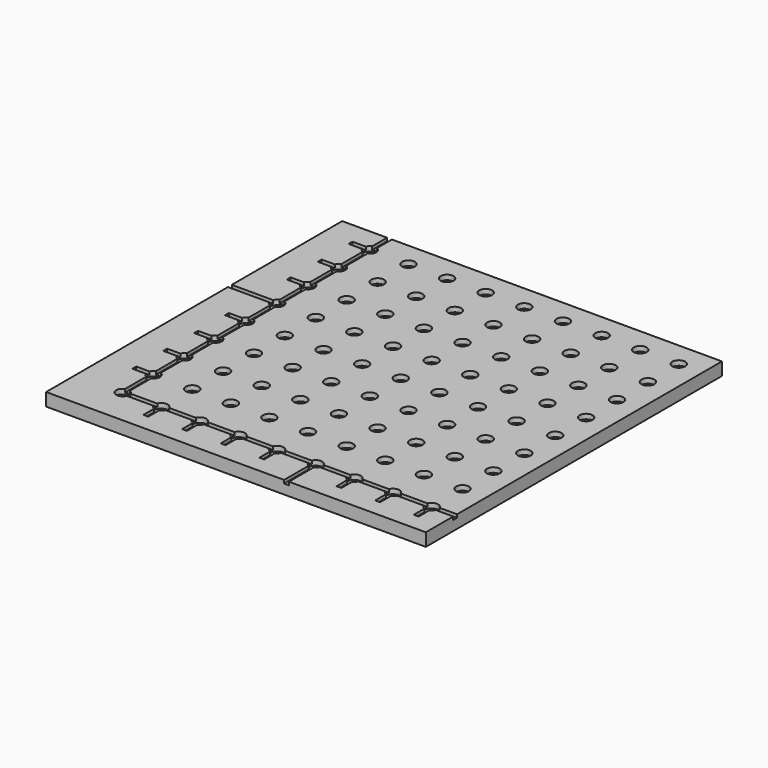
from build123d import *

# Parameters (mm, degrees)
F0_W      = 190
F0_H      = 190
F0_R      = 1
F1_DEPTH  = 4
F5_W      = 118
F5_H      = 115
F6_DEPTH  = 25
F7_R      = 2
F8_DEPTH  = 1.5
F9_DEPTH  = 1
F3_W      = 1.5
F3_H      = 6
F3_W_2    = 6
F3_H_2    = 1.5
F10_DEPTH = 1
F4_W      = 1.5
F4_H      = 13.585803
F4_H_2    = 16.246846
F4_W_2    = 18.853063
F4_H_3    = 1.5
F4_W_3    = 20.239596
F11_DEPTH = 1


with BuildPart() as f1:
    # F0 (on Top) → F1 (new body)
    with BuildSketch(Plane.XY):
        Rectangle(F0_W, F0_H)
        with Locations((-80, -83)):
            Circle(F0_R, mode=Mode.SUBTRACT)
        with Locations((-68, -83)):
            Circle(F0_R, mode=Mode.SUBTRACT)
        with Locations((-56, -83)):
            Circle(F0_R, mode=Mode.SUBTRACT)
        with Locations((-80, -71)):
            Circle(F0_R, mode=Mode.SUBTRACT)
        with Locations((-80, -59)):
            Circle(F0_R, mode=Mode.SUBTRACT)
        with Locations((-68, -71)):
            Circle(F0_R, mode=Mode.SUBTRACT)
        with Locations((-56, -71)):
            Circle(F0_R, mode=Mode.SUBTRACT)
        with Locations((-68, -59)):
            Circle(F0_R, mode=Mode.SUBTRACT)
        with Locations((-56, -59)):
            Circle(F0_R, mode=Mode.SUBTRACT)
        with Locations((-44, -83)):
            Circle(F0_R, mode=Mode.SUBTRACT)
        with Locations((-32, -83)):
            Circle(F0_R, mode=Mode.SUBTRACT)
        with Locations((-20, -83)):
            Circle(F0_R, mode=Mode.SUBTRACT)
        with Locations((-8, -83)):
            Circle(F0_R, mode=Mode.SUBTRACT)
        with Locations((-44, -71)):
            Circle(F0_R, mode=Mode.SUBTRACT)
        with Locations((-32, -71)):
            Circle(F0_R, mode=Mode.SUBTRACT)
        with Locations((-44, -59)):
            Circle(F0_R, mode=Mode.SUBTRACT)
        with Locations((-32, -59)):
            Circle(F0_R, mode=Mode.SUBTRACT)
        with Locations((-20, -71)):
            Circle(F0_R, mode=Mode.SUBTRACT)
        with Locations((-8, -71)):
            Circle(F0_R, mode=Mode.SUBTRACT)
        with Locations((-20, -59)):
            Circle(F0_R, mode=Mode.SUBTRACT)
        with Locations((-8, -59)):
            Circle(F0_R, mode=Mode.SUBTRACT)
        with Locations((-80, -47)):
            Circle(F0_R, mode=Mode.SUBTRACT)
        with Locations((-80, -35)):
            Circle(F0_R, mode=Mode.SUBTRACT)
        with Locations((-68, -47)):
            Circle(F0_R, mode=Mode.SUBTRACT)
        with Locations((-56, -47)):
            Circle(F0_R, mode=Mode.SUBTRACT)
        with Locations((-68, -35)):
            Circle(F0_R, mode=Mode.SUBTRACT)
        with Locations((-56, -35)):
            Circle(F0_R, mode=Mode.SUBTRACT)
        with Locations((-80, -23)):
            Circle(F0_R, mode=Mode.SUBTRACT)
        with Locations((-80, -11)):
            Circle(F0_R, mode=Mode.SUBTRACT)
        with Locations((-68, -23)):
            Circle(F0_R, mode=Mode.SUBTRACT)
        with Locations((-56, -23)):
            Circle(F0_R, mode=Mode.SUBTRACT)
        with Locations((-68, -11)):
            Circle(F0_R, mode=Mode.SUBTRACT)
        with Locations((-56, -11)):
            Circle(F0_R, mode=Mode.SUBTRACT)
        with Locations((-44, -47)):
            Circle(F0_R, mode=Mode.SUBTRACT)
        with Locations((-32, -47)):
            Circle(F0_R, mode=Mode.SUBTRACT)
        with Locations((-44, -35)):
            Circle(F0_R, mode=Mode.SUBTRACT)
        with Locations((-32, -35)):
            Circle(F0_R, mode=Mode.SUBTRACT)
        with Locations((-20, -47)):
            Circle(F0_R, mode=Mode.SUBTRACT)
        with Locations((-8, -47)):
            Circle(F0_R, mode=Mode.SUBTRACT)
        with Locations((-20, -35)):
            Circle(F0_R, mode=Mode.SUBTRACT)
        with Locations((-8, -35)):
            Circle(F0_R, mode=Mode.SUBTRACT)
        with Locations((-44, -23)):
            Circle(F0_R, mode=Mode.SUBTRACT)
        with Locations((-32, -23)):
            Circle(F0_R, mode=Mode.SUBTRACT)
        with Locations((-44, -11)):
            Circle(F0_R, mode=Mode.SUBTRACT)
        with Locations((-32, -11)):
            Circle(F0_R, mode=Mode.SUBTRACT)
        with Locations((-20, -23)):
            Circle(F0_R, mode=Mode.SUBTRACT)
        with Locations((-8, -23)):
            Circle(F0_R, mode=Mode.SUBTRACT)
        with Locations((-20, -11)):
            Circle(F0_R, mode=Mode.SUBTRACT)
        with Locations((-8, -11)):
            Circle(F0_R, mode=Mode.SUBTRACT)
        with Locations((4, -83)):
            Circle(F0_R, mode=Mode.SUBTRACT)
        with Locations((16, -83)):
            Circle(F0_R, mode=Mode.SUBTRACT)
        with Locations((28, -83)):
            Circle(F0_R, mode=Mode.SUBTRACT)
        with Locations((40, -83)):
            Circle(F0_R, mode=Mode.SUBTRACT)
        with Locations((4, -71)):
            Circle(F0_R, mode=Mode.SUBTRACT)
        with Locations((16, -71)):
            Circle(F0_R, mode=Mode.SUBTRACT)
        with Locations((4, -59)):
            Circle(F0_R, mode=Mode.SUBTRACT)
        with Locations((16, -59)):
            Circle(F0_R, mode=Mode.SUBTRACT)
        with Locations((28, -71)):
            Circle(F0_R, mode=Mode.SUBTRACT)
        with Locations((40, -71)):
            Circle(F0_R, mode=Mode.SUBTRACT)
        with Locations((28, -59)):
            Circle(F0_R, mode=Mode.SUBTRACT)
        with Locations((40, -59)):
            Circle(F0_R, mode=Mode.SUBTRACT)
        with Locations((52, -83)):
            Circle(F0_R, mode=Mode.SUBTRACT)
        with Locations((64, -83)):
            Circle(F0_R, mode=Mode.SUBTRACT)
        with Locations((76, -83)):
            Circle(F0_R, mode=Mode.SUBTRACT)
        with Locations((88, -83)):
            Circle(F0_R, mode=Mode.SUBTRACT)
        with Locations((52, -71)):
            Circle(F0_R, mode=Mode.SUBTRACT)
        with Locations((64, -71)):
            Circle(F0_R, mode=Mode.SUBTRACT)
        with Locations((52, -59)):
            Circle(F0_R, mode=Mode.SUBTRACT)
        with Locations((64, -59)):
            Circle(F0_R, mode=Mode.SUBTRACT)
        with Locations((76, -71)):
            Circle(F0_R, mode=Mode.SUBTRACT)
        with Locations((88, -71)):
            Circle(F0_R, mode=Mode.SUBTRACT)
        with Locations((76, -59)):
            Circle(F0_R, mode=Mode.SUBTRACT)
        with Locations((88, -59)):
            Circle(F0_R, mode=Mode.SUBTRACT)
        with Locations((4, -47)):
            Circle(F0_R, mode=Mode.SUBTRACT)
        with Locations((16, -47)):
            Circle(F0_R, mode=Mode.SUBTRACT)
        with Locations((4, -35)):
            Circle(F0_R, mode=Mode.SUBTRACT)
        with Locations((16, -35)):
            Circle(F0_R, mode=Mode.SUBTRACT)
        with Locations((28, -47)):
            Circle(F0_R, mode=Mode.SUBTRACT)
        with Locations((40, -47)):
            Circle(F0_R, mode=Mode.SUBTRACT)
        with Locations((28, -35)):
            Circle(F0_R, mode=Mode.SUBTRACT)
        with Locations((40, -35)):
            Circle(F0_R, mode=Mode.SUBTRACT)
        with Locations((4, -23)):
            Circle(F0_R, mode=Mode.SUBTRACT)
        with Locations((16, -23)):
            Circle(F0_R, mode=Mode.SUBTRACT)
        with Locations((4, -11)):
            Circle(F0_R, mode=Mode.SUBTRACT)
        with Locations((16, -11)):
            Circle(F0_R, mode=Mode.SUBTRACT)
        with Locations((28, -23)):
            Circle(F0_R, mode=Mode.SUBTRACT)
        with Locations((40, -23)):
            Circle(F0_R, mode=Mode.SUBTRACT)
        with Locations((28, -11)):
            Circle(F0_R, mode=Mode.SUBTRACT)
        with Locations((40, -11)):
            Circle(F0_R, mode=Mode.SUBTRACT)
        with Locations((52, -47)):
            Circle(F0_R, mode=Mode.SUBTRACT)
        with Locations((64, -47)):
            Circle(F0_R, mode=Mode.SUBTRACT)
        with Locations((52, -35)):
            Circle(F0_R, mode=Mode.SUBTRACT)
        with Locations((64, -35)):
            Circle(F0_R, mode=Mode.SUBTRACT)
        with Locations((76, -47)):
            Circle(F0_R, mode=Mode.SUBTRACT)
        with Locations((88, -47)):
            Circle(F0_R, mode=Mode.SUBTRACT)
        with Locations((76, -35)):
            Circle(F0_R, mode=Mode.SUBTRACT)
        with Locations((88, -35)):
            Circle(F0_R, mode=Mode.SUBTRACT)
        with Locations((52, -23)):
            Circle(F0_R, mode=Mode.SUBTRACT)
        with Locations((64, -23)):
            Circle(F0_R, mode=Mode.SUBTRACT)
        with Locations((52, -11)):
            Circle(F0_R, mode=Mode.SUBTRACT)
        with Locations((64, -11)):
            Circle(F0_R, mode=Mode.SUBTRACT)
        with Locations((76, -23)):
            Circle(F0_R, mode=Mode.SUBTRACT)
        with Locations((88, -23)):
            Circle(F0_R, mode=Mode.SUBTRACT)
        with Locations((76, -11)):
            Circle(F0_R, mode=Mode.SUBTRACT)
        with Locations((88, -11)):
            Circle(F0_R, mode=Mode.SUBTRACT)
        with Locations((-80, 1)):
            Circle(F0_R, mode=Mode.SUBTRACT)
        with Locations((-80, 13)):
            Circle(F0_R, mode=Mode.SUBTRACT)
        with Locations((-68, 1)):
            Circle(F0_R, mode=Mode.SUBTRACT)
        with Locations((-56, 1)):
            Circle(F0_R, mode=Mode.SUBTRACT)
        with Locations((-68, 13)):
            Circle(F0_R, mode=Mode.SUBTRACT)
        with Locations((-56, 13)):
            Circle(F0_R, mode=Mode.SUBTRACT)
        with Locations((-80, 25)):
            Circle(F0_R, mode=Mode.SUBTRACT)
        with Locations((-80, 37)):
            Circle(F0_R, mode=Mode.SUBTRACT)
        with Locations((-68, 25)):
            Circle(F0_R, mode=Mode.SUBTRACT)
        with Locations((-56, 25)):
            Circle(F0_R, mode=Mode.SUBTRACT)
        with Locations((-68, 37)):
            Circle(F0_R, mode=Mode.SUBTRACT)
        with Locations((-56, 37)):
            Circle(F0_R, mode=Mode.SUBTRACT)
        with Locations((-44, 1)):
            Circle(F0_R, mode=Mode.SUBTRACT)
        with Locations((-32, 1)):
            Circle(F0_R, mode=Mode.SUBTRACT)
        with Locations((-44, 13)):
            Circle(F0_R, mode=Mode.SUBTRACT)
        with Locations((-32, 13)):
            Circle(F0_R, mode=Mode.SUBTRACT)
        with Locations((-20, 1)):
            Circle(F0_R, mode=Mode.SUBTRACT)
        with Locations((-8, 1)):
            Circle(F0_R, mode=Mode.SUBTRACT)
        with Locations((-20, 13)):
            Circle(F0_R, mode=Mode.SUBTRACT)
        with Locations((-8, 13)):
            Circle(F0_R, mode=Mode.SUBTRACT)
        with Locations((-44, 25)):
            Circle(F0_R, mode=Mode.SUBTRACT)
        with Locations((-32, 25)):
            Circle(F0_R, mode=Mode.SUBTRACT)
        with Locations((-44, 37)):
            Circle(F0_R, mode=Mode.SUBTRACT)
        with Locations((-32, 37)):
            Circle(F0_R, mode=Mode.SUBTRACT)
        with Locations((-20, 25)):
            Circle(F0_R, mode=Mode.SUBTRACT)
        with Locations((-8, 25)):
            Circle(F0_R, mode=Mode.SUBTRACT)
        with Locations((-20, 37)):
            Circle(F0_R, mode=Mode.SUBTRACT)
        with Locations((-8, 37)):
            Circle(F0_R, mode=Mode.SUBTRACT)
        with Locations((-80, 49)):
            Circle(F0_R, mode=Mode.SUBTRACT)
        with Locations((-80, 61)):
            Circle(F0_R, mode=Mode.SUBTRACT)
        with Locations((-68, 49)):
            Circle(F0_R, mode=Mode.SUBTRACT)
        with Locations((-56, 49)):
            Circle(F0_R, mode=Mode.SUBTRACT)
        with Locations((-68, 61)):
            Circle(F0_R, mode=Mode.SUBTRACT)
        with Locations((-56, 61)):
            Circle(F0_R, mode=Mode.SUBTRACT)
        with Locations((-80, 73)):
            Circle(F0_R, mode=Mode.SUBTRACT)
        with Locations((-80, 85)):
            Circle(F0_R, mode=Mode.SUBTRACT)
        with Locations((-68, 73)):
            Circle(F0_R, mode=Mode.SUBTRACT)
        with Locations((-56, 73)):
            Circle(F0_R, mode=Mode.SUBTRACT)
        with Locations((-68, 85)):
            Circle(F0_R, mode=Mode.SUBTRACT)
        with Locations((-56, 85)):
            Circle(F0_R, mode=Mode.SUBTRACT)
        with Locations((-44, 49)):
            Circle(F0_R, mode=Mode.SUBTRACT)
        with Locations((-32, 49)):
            Circle(F0_R, mode=Mode.SUBTRACT)
        with Locations((-44, 61)):
            Circle(F0_R, mode=Mode.SUBTRACT)
        with Locations((-32, 61)):
            Circle(F0_R, mode=Mode.SUBTRACT)
        with Locations((-20, 49)):
            Circle(F0_R, mode=Mode.SUBTRACT)
        with Locations((-8, 49)):
            Circle(F0_R, mode=Mode.SUBTRACT)
        with Locations((-20, 61)):
            Circle(F0_R, mode=Mode.SUBTRACT)
        with Locations((-8, 61)):
            Circle(F0_R, mode=Mode.SUBTRACT)
        with Locations((-44, 73)):
            Circle(F0_R, mode=Mode.SUBTRACT)
        with Locations((-32, 73)):
            Circle(F0_R, mode=Mode.SUBTRACT)
        with Locations((-44, 85)):
            Circle(F0_R, mode=Mode.SUBTRACT)
        with Locations((-32, 85)):
            Circle(F0_R, mode=Mode.SUBTRACT)
        with Locations((-20, 73)):
            Circle(F0_R, mode=Mode.SUBTRACT)
        with Locations((-8, 73)):
            Circle(F0_R, mode=Mode.SUBTRACT)
        with Locations((-20, 85)):
            Circle(F0_R, mode=Mode.SUBTRACT)
        with Locations((-8, 85)):
            Circle(F0_R, mode=Mode.SUBTRACT)
        with Locations((4, 1)):
            Circle(F0_R, mode=Mode.SUBTRACT)
        with Locations((16, 1)):
            Circle(F0_R, mode=Mode.SUBTRACT)
        with Locations((4, 13)):
            Circle(F0_R, mode=Mode.SUBTRACT)
        with Locations((16, 13)):
            Circle(F0_R, mode=Mode.SUBTRACT)
        with Locations((28, 1)):
            Circle(F0_R, mode=Mode.SUBTRACT)
        with Locations((40, 1)):
            Circle(F0_R, mode=Mode.SUBTRACT)
        with Locations((28, 13)):
            Circle(F0_R, mode=Mode.SUBTRACT)
        with Locations((40, 13)):
            Circle(F0_R, mode=Mode.SUBTRACT)
        with Locations((4, 25)):
            Circle(F0_R, mode=Mode.SUBTRACT)
        with Locations((16, 25)):
            Circle(F0_R, mode=Mode.SUBTRACT)
        with Locations((4, 37)):
            Circle(F0_R, mode=Mode.SUBTRACT)
        with Locations((16, 37)):
            Circle(F0_R, mode=Mode.SUBTRACT)
        with Locations((28, 25)):
            Circle(F0_R, mode=Mode.SUBTRACT)
        with Locations((40, 25)):
            Circle(F0_R, mode=Mode.SUBTRACT)
        with Locations((28, 37)):
            Circle(F0_R, mode=Mode.SUBTRACT)
        with Locations((40, 37)):
            Circle(F0_R, mode=Mode.SUBTRACT)
        with Locations((52, 1)):
            Circle(F0_R, mode=Mode.SUBTRACT)
        with Locations((64, 1)):
            Circle(F0_R, mode=Mode.SUBTRACT)
        with Locations((52, 13)):
            Circle(F0_R, mode=Mode.SUBTRACT)
        with Locations((64, 13)):
            Circle(F0_R, mode=Mode.SUBTRACT)
        with Locations((76, 1)):
            Circle(F0_R, mode=Mode.SUBTRACT)
        with Locations((88, 1)):
            Circle(F0_R, mode=Mode.SUBTRACT)
        with Locations((76, 13)):
            Circle(F0_R, mode=Mode.SUBTRACT)
        with Locations((88, 13)):
            Circle(F0_R, mode=Mode.SUBTRACT)
        with Locations((52, 25)):
            Circle(F0_R, mode=Mode.SUBTRACT)
        with Locations((64, 25)):
            Circle(F0_R, mode=Mode.SUBTRACT)
        with Locations((52, 37)):
            Circle(F0_R, mode=Mode.SUBTRACT)
        with Locations((64, 37)):
            Circle(F0_R, mode=Mode.SUBTRACT)
        with Locations((76, 25)):
            Circle(F0_R, mode=Mode.SUBTRACT)
        with Locations((88, 25)):
            Circle(F0_R, mode=Mode.SUBTRACT)
        with Locations((76, 37)):
            Circle(F0_R, mode=Mode.SUBTRACT)
        with Locations((88, 37)):
            Circle(F0_R, mode=Mode.SUBTRACT)
        with Locations((4, 49)):
            Circle(F0_R, mode=Mode.SUBTRACT)
        with Locations((16, 49)):
            Circle(F0_R, mode=Mode.SUBTRACT)
        with Locations((4, 61)):
            Circle(F0_R, mode=Mode.SUBTRACT)
        with Locations((16, 61)):
            Circle(F0_R, mode=Mode.SUBTRACT)
        with Locations((28, 49)):
            Circle(F0_R, mode=Mode.SUBTRACT)
        with Locations((40, 49)):
            Circle(F0_R, mode=Mode.SUBTRACT)
        with Locations((28, 61)):
            Circle(F0_R, mode=Mode.SUBTRACT)
        with Locations((40, 61)):
            Circle(F0_R, mode=Mode.SUBTRACT)
        with Locations((4, 73)):
            Circle(F0_R, mode=Mode.SUBTRACT)
        with Locations((16, 73)):
            Circle(F0_R, mode=Mode.SUBTRACT)
        with Locations((4, 85)):
            Circle(F0_R, mode=Mode.SUBTRACT)
        with Locations((16, 85)):
            Circle(F0_R, mode=Mode.SUBTRACT)
        with Locations((28, 73)):
            Circle(F0_R, mode=Mode.SUBTRACT)
        with Locations((40, 73)):
            Circle(F0_R, mode=Mode.SUBTRACT)
        with Locations((28, 85)):
            Circle(F0_R, mode=Mode.SUBTRACT)
        with Locations((40, 85)):
            Circle(F0_R, mode=Mode.SUBTRACT)
        with Locations((52, 49)):
            Circle(F0_R, mode=Mode.SUBTRACT)
        with Locations((64, 49)):
            Circle(F0_R, mode=Mode.SUBTRACT)
        with Locations((52, 61)):
            Circle(F0_R, mode=Mode.SUBTRACT)
        with Locations((64, 61)):
            Circle(F0_R, mode=Mode.SUBTRACT)
        with Locations((76, 49)):
            Circle(F0_R, mode=Mode.SUBTRACT)
        with Locations((88, 49)):
            Circle(F0_R, mode=Mode.SUBTRACT)
        with Locations((76, 61)):
            Circle(F0_R, mode=Mode.SUBTRACT)
        with Locations((88, 61)):
            Circle(F0_R, mode=Mode.SUBTRACT)
        with Locations((52, 73)):
            Circle(F0_R, mode=Mode.SUBTRACT)
        with Locations((64, 73)):
            Circle(F0_R, mode=Mode.SUBTRACT)
        with Locations((52, 85)):
            Circle(F0_R, mode=Mode.SUBTRACT)
        with Locations((64, 85)):
            Circle(F0_R, mode=Mode.SUBTRACT)
        with Locations((76, 73)):
            Circle(F0_R, mode=Mode.SUBTRACT)
        with Locations((88, 73)):
            Circle(F0_R, mode=Mode.SUBTRACT)
        with Locations((76, 85)):
            Circle(F0_R, mode=Mode.SUBTRACT)
        with Locations((88, 85)):
            Circle(F0_R, mode=Mode.SUBTRACT)
    extrude(amount=F1_DEPTH)

    # F5 (on face) → F6 (intersect)
    with BuildSketch(Plane.XY.offset(4)):
        with Locations((-35.704308, -36.876065)):
            Rectangle(F5_W, F5_H)
    extrude(amount=-F6_DEPTH, mode=Mode.INTERSECT)

    # F7 (on face) → F8 (cut)
    with BuildSketch(Plane.XY.offset(4)):
        with Locations((-80, 37)):
            Circle(F7_R)
        with Locations((-80, 25)):
            Circle(F7_R)
        with Locations((-80, 13)):
            Circle(F7_R)
        with Locations((-80, 1)):
            Circle(F7_R)
        with Locations((-80, -11)):
            Circle(F7_R)
        with Locations((-80, -23)):
            Circle(F7_R)
        with Locations((-80, -35)):
            Circle(F7_R)
        with Locations((-80, -47)):
            Circle(F7_R)
        with Locations((-80, -59)):
            Circle(F7_R)
        with Locations((-80, -71)):
            Circle(F7_R)
        with Locations((-80, -83)):
            Circle(F7_R)
        with Locations((-68, 37)):
            Circle(F7_R)
        with Locations((-68, 25)):
            Circle(F7_R)
        with Locations((-68, 13)):
            Circle(F7_R)
        with Locations((-68, 1)):
            Circle(F7_R)
        with Locations((-68, -11)):
            Circle(F7_R)
        with Locations((-68, -23)):
            Circle(F7_R)
        with Locations((-68, -35)):
            Circle(F7_R)
        with Locations((-68, -47)):
            Circle(F7_R)
        with Locations((-68, -59)):
            Circle(F7_R)
        with Locations((-68, -71)):
            Circle(F7_R)
        with Locations((-68, -83)):
            Circle(F7_R)
        with Locations((-56, 37)):
            Circle(F7_R)
        with Locations((-56, 25)):
            Circle(F7_R)
        with Locations((-56, 13)):
            Circle(F7_R)
        with Locations((-56, 1)):
            Circle(F7_R)
        with Locations((-56, -11)):
            Circle(F7_R)
        with Locations((-56, -23)):
            Circle(F7_R)
        with Locations((-56, -35)):
            Circle(F7_R)
        with Locations((-56, -47)):
            Circle(F7_R)
        with Locations((-56, -59)):
            Circle(F7_R)
        with Locations((-56, -71)):
            Circle(F7_R)
        with Locations((-56, -83)):
            Circle(F7_R)
        with Locations((-44, 37)):
            Circle(F7_R)
        with Locations((-44, 25)):
            Circle(F7_R)
        with Locations((-44, 13)):
            Circle(F7_R)
        with Locations((-44, 1)):
            Circle(F7_R)
        with Locations((-44, -11)):
            Circle(F7_R)
        with Locations((-44, -23)):
            Circle(F7_R)
        with Locations((-44, -35)):
            Circle(F7_R)
        with Locations((-44, -47)):
            Circle(F7_R)
        with Locations((-44, -59)):
            Circle(F7_R)
        with Locations((-44, -71)):
            Circle(F7_R)
        with Locations((-44, -83)):
            Circle(F7_R)
        with Locations((-32, 37)):
            Circle(F7_R)
        with Locations((-32, 25)):
            Circle(F7_R)
        with Locations((-32, 13)):
            Circle(F7_R)
        with Locations((-32, 1)):
            Circle(F7_R)
        with Locations((-32, -11)):
            Circle(F7_R)
        with Locations((-32, -23)):
            Circle(F7_R)
        with Locations((-32, -35)):
            Circle(F7_R)
        with Locations((-32, -47)):
            Circle(F7_R)
        with Locations((-32, -59)):
            Circle(F7_R)
        with Locations((-32, -71)):
            Circle(F7_R)
        with Locations((-32, -83)):
            Circle(F7_R)
        with Locations((-20, 37)):
            Circle(F7_R)
        with Locations((-20, 25)):
            Circle(F7_R)
        with Locations((-20, 13)):
            Circle(F7_R)
        with Locations((-20, 1)):
            Circle(F7_R)
        with Locations((-20, -11)):
            Circle(F7_R)
        with Locations((-20, -23)):
            Circle(F7_R)
        with Locations((-20, -35)):
            Circle(F7_R)
        with Locations((-20, -47)):
            Circle(F7_R)
        with Locations((-20, -59)):
            Circle(F7_R)
        with Locations((-20, -71)):
            Circle(F7_R)
        with Locations((-20, -83)):
            Circle(F7_R)
        with Locations((-8, 37)):
            Circle(F7_R)
        with Locations((-8, 25)):
            Circle(F7_R)
        with Locations((-8, 13)):
            Circle(F7_R)
        with Locations((-8, 1)):
            Circle(F7_R)
        with Locations((-8, -11)):
            Circle(F7_R)
        with Locations((-8, -23)):
            Circle(F7_R)
        with Locations((-8, -35)):
            Circle(F7_R)
        with Locations((-8, -47)):
            Circle(F7_R)
        with Locations((-8, -59)):
            Circle(F7_R)
        with Locations((-8, -71)):
            Circle(F7_R)
        with Locations((-8, -83)):
            Circle(F7_R)
        with Locations((4, 37)):
            Circle(F7_R)
        with Locations((4, 25)):
            Circle(F7_R)
        with Locations((4, 13)):
            Circle(F7_R)
        with Locations((4, 1)):
            Circle(F7_R)
        with Locations((4, -11)):
            Circle(F7_R)
        with Locations((4, -23)):
            Circle(F7_R)
        with Locations((4, -35)):
            Circle(F7_R)
        with Locations((4, -47)):
            Circle(F7_R)
        with Locations((4, -59)):
            Circle(F7_R)
        with Locations((4, -71)):
            Circle(F7_R)
        with Locations((4, -83)):
            Circle(F7_R)
        with Locations((16, 37)):
            Circle(F7_R)
        with Locations((16, 25)):
            Circle(F7_R)
        with Locations((16, 13)):
            Circle(F7_R)
        with Locations((16, 1)):
            Circle(F7_R)
        with Locations((16, -11)):
            Circle(F7_R)
        with Locations((16, -23)):
            Circle(F7_R)
        with Locations((16, -35)):
            Circle(F7_R)
        with Locations((16, -47)):
            Circle(F7_R)
        with Locations((16, -59)):
            Circle(F7_R)
        with Locations((16, -71)):
            Circle(F7_R)
        with Locations((16, -83)):
            Circle(F7_R)
        with Locations((28, 37)):
            Circle(F7_R)
        with Locations((28, 25)):
            Circle(F7_R)
        with Locations((28, 13)):
            Circle(F7_R)
        with Locations((28, 1)):
            Circle(F7_R)
        with Locations((28, -11)):
            Circle(F7_R)
        with Locations((28, -23)):
            Circle(F7_R)
        with Locations((28, -35)):
            Circle(F7_R)
        with Locations((28, -47)):
            Circle(F7_R)
        with Locations((28, -59)):
            Circle(F7_R)
        with Locations((28, -71)):
            Circle(F7_R)
        with Locations((28, -83)):
            Circle(F7_R)
        with Locations((40, 37)):
            Circle(F7_R)
        with Locations((40, 25)):
            Circle(F7_R)
        with Locations((40, 13)):
            Circle(F7_R)
        with Locations((40, 1)):
            Circle(F7_R)
        with Locations((40, -11)):
            Circle(F7_R)
        with Locations((40, -23)):
            Circle(F7_R)
        with Locations((40, -35)):
            Circle(F7_R)
        with Locations((40, -47)):
            Circle(F7_R)
        with Locations((40, -59)):
            Circle(F7_R)
        with Locations((40, -71)):
            Circle(F7_R)
        with Locations((40, -83)):
            Circle(F7_R)
    extrude(amount=-F8_DEPTH, mode=Mode.SUBTRACT)

    # F2 (on face) → F9 (cut)
    with BuildSketch(Plane.XY.offset(4)):
        Polygon((-79.25, 95), (-80.75, 95), (-80.75, -83.75), (95, -83.75), (95, -82.25), (-79.25, -82.25), align=None)
    extrude(amount=-F9_DEPTH, mode=Mode.SUBTRACT)

    # F3 (on face) → F10 (cut)
    with BuildSketch(Plane.XY.offset(4)):
        with Locations((-68, -86)):
            Rectangle(F3_W, F3_H)
        with Locations((-56, -86)):
            Rectangle(F3_W, F3_H)
        with Locations((-44, -86)):
            Rectangle(F3_W, F3_H)
        with Locations((-32, -86)):
            Rectangle(F3_W, F3_H)
        with Locations((-20, -86)):
            Rectangle(F3_W, F3_H)
        with Locations((-8, -86)):
            Rectangle(F3_W, F3_H)
        with Locations((4, -86)):
            Rectangle(F3_W, F3_H)
        with Locations((16, -86)):
            Rectangle(F3_W, F3_H)
        with Locations((28, -86)):
            Rectangle(F3_W, F3_H)
        with Locations((40, -86)):
            Rectangle(F3_W, F3_H)
        with Locations((52, -86)):
            Rectangle(F3_W, F3_H)
        with Locations((64, -86)):
            Rectangle(F3_W, F3_H)
        with Locations((76, -86)):
            Rectangle(F3_W, F3_H)
        with Locations((88, -86)):
            Rectangle(F3_W, F3_H)
        with Locations((-83, -71)):
            Rectangle(F3_W_2, F3_H_2)
        with Locations((-83, -59)):
            Rectangle(F3_W_2, F3_H_2)
        with Locations((-83, -47)):
            Rectangle(F3_W_2, F3_H_2)
        with Locations((-83, -35)):
            Rectangle(F3_W_2, F3_H_2)
        with Locations((-83, -23)):
            Rectangle(F3_W_2, F3_H_2)
        with Locations((-83, -11)):
            Rectangle(F3_W_2, F3_H_2)
        with Locations((-83, 1)):
            Rectangle(F3_W_2, F3_H_2)
        with Locations((-83, 13)):
            Rectangle(F3_W_2, F3_H_2)
        with Locations((-83, 25)):
            Rectangle(F3_W_2, F3_H_2)
        with Locations((-83, 37)):
            Rectangle(F3_W_2, F3_H_2)
        with Locations((-83, 49)):
            Rectangle(F3_W_2, F3_H_2)
        with Locations((-83, 61)):
            Rectangle(F3_W_2, F3_H_2)
        with Locations((-83, 73)):
            Rectangle(F3_W_2, F3_H_2)
        with Locations((-83, 85)):
            Rectangle(F3_W_2, F3_H_2)
    extrude(amount=-F10_DEPTH, mode=Mode.SUBTRACT)

    # F4 (on face) → F11 (cut)
    with BuildSketch(Plane.XY.offset(4)):
        with Locations((-20, -89.792901)):
            Rectangle(F4_W, F4_H)
        with Locations((40, -91.123423)):
            Rectangle(F4_W, F4_H_2)
        with Locations((-89.426531, -23)):
            Rectangle(F4_W_2, F4_H_3)
        with Locations((-90.119798, 37)):
            Rectangle(F4_W_3, F4_H_3)
    extrude(amount=-F11_DEPTH, mode=Mode.SUBTRACT)


solid = f1.part
